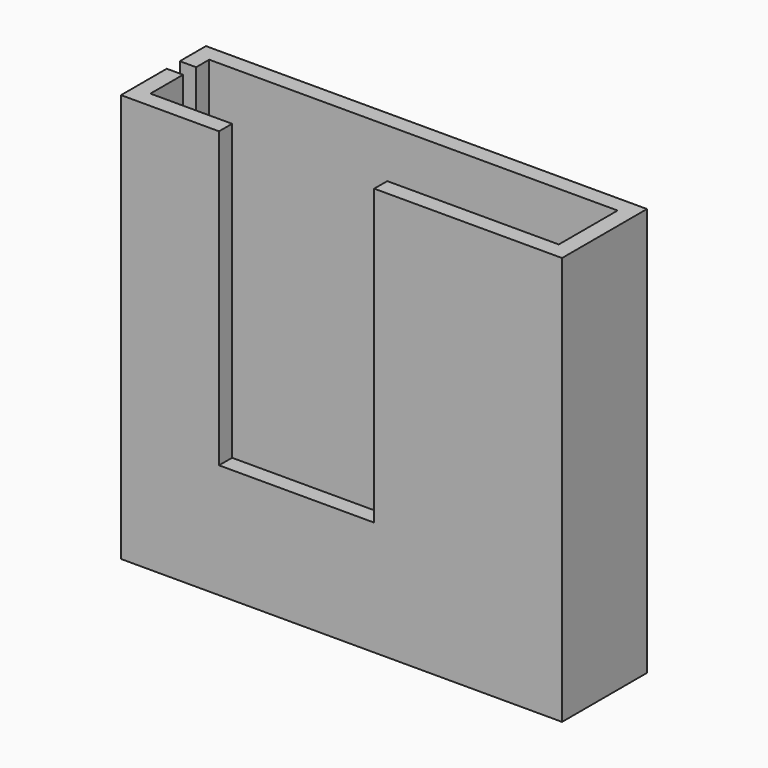
from build123d import *

# Parameters (mm, degrees)
F0_W      = 27
F0_H      = 6.5
F1_DEPTH  = 25
F2_T      = -1
F3_W      = 9.5
F3_H      = 18
F4_DEPTH  = 1
F5_W      = 1
F5_H      = 22
F6_DEPTH  = 1
F7_W      = 3
F7_H      = 3
F8_DEPTH  = 2
F9_W      = 2
F9_H      = 3
F9_W_2    = 3
F10_DEPTH = 1.5


with BuildPart() as f1:
    # F0 (on Top) → F1 (new body)
    with BuildSketch(Plane.XY):
        with Locations((13.5, 3.25)):
            Rectangle(F0_W, F0_H)
    extrude(amount=F1_DEPTH)

    # F2
    f2_openings = [f1.faces().sort_by_distance(p)[0] for p in [
        (13.5, 3.25, 25),
    ]]
    offset(amount=F2_T, openings=f2_openings)

    # F3 (on face) → F4 (cut, through all)
    with BuildSketch(Plane.XZ):
        with Locations((10.75, 16)):
            Rectangle(F3_W, F3_H)
    extrude(amount=-F4_DEPTH, mode=Mode.SUBTRACT)

    # F5 (on face) → F6 (cut, through all)
    with BuildSketch(Plane(origin=(0, 0, 0), x_dir=(0, -1, 0), z_dir=(-1, 0, 0))):
        with Locations((-4, 14)):
            Rectangle(F5_W, F5_H)
    extrude(amount=-F6_DEPTH, mode=Mode.SUBTRACT)

    # F7 (on face) → F8 (join)
    with BuildSketch(Plane(origin=(0, 6.5, 0), x_dir=(-1, 0, 0), z_dir=(0, 1, 0))):
        with Locations((-13.5, 1.5)):
            Rectangle(F7_W, F7_H)
    extrude(amount=F8_DEPTH)

    # F9 (on face) → F10 (join)
    with BuildSketch(Plane(origin=(0, 8.5, 0), x_dir=(-1, 0, 0), z_dir=(0, 1, 0))):
        with Locations((-11, 1.5)):
            Rectangle(F9_W, F9_H)
        with Locations((-13.5, 1.5)):
            Rectangle(F9_W_2, F9_H)
        with Locations((-16, 1.5)):
            Rectangle(F9_W, F9_H)
    extrude(amount=F10_DEPTH)


solid = f1.part
